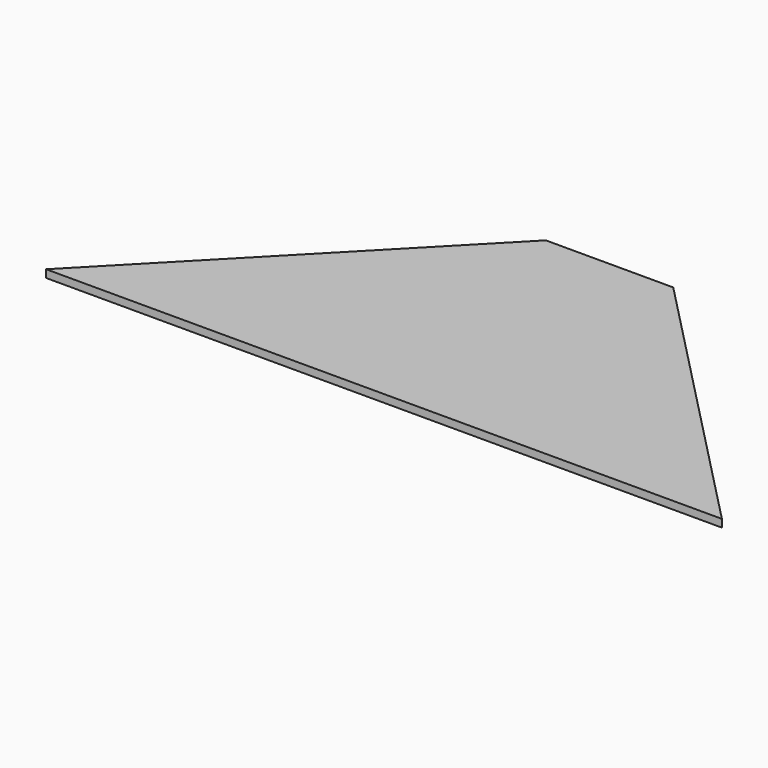
from build123d import *

# Parameters (mm, degrees)
F0_W     = 146
F0_H     = 4
F1_DEPTH = 175
F3_DEPTH = 4


with BuildPart() as f1:
    # F0 (on Right) → F1 (new body, symmetric)
    with BuildSketch(Plane.YZ):
        with Locations((-73, 2)):
            Rectangle(F0_W, F0_H)
    extrude(amount=F1_DEPTH, both=True)

    # F2 (on face) → F3 (cut, through all)
    with BuildSketch(Plane.XY.offset(4)):
        Polygon((-175, 0), (-175, -146), (-33, 0), align=None)
        Polygon((33, 0), (175, -146), (175, 0), align=None)
    extrude(amount=-F3_DEPTH, mode=Mode.SUBTRACT)


solid = f1.part
